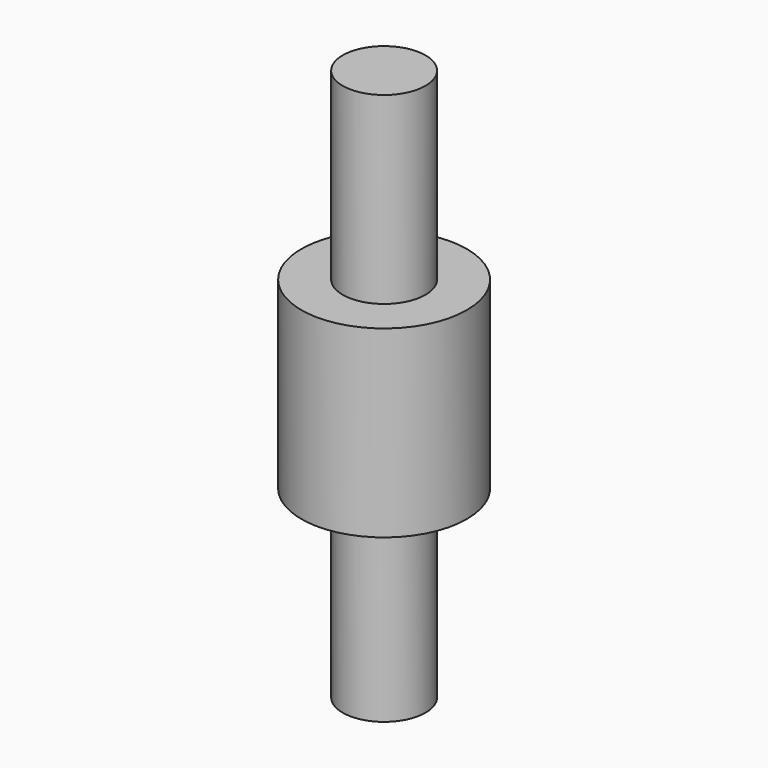
from build123d import *

# Parameters (mm, degrees)
CYLINDER002_R     = 4.5
CYLINDER002_DEPTH = 10
CYLINDER003_R     = 2.25
CYLINDER003_DEPTH = 30


with BuildPart() as cylinder002:
    # Cylinder002 → Cylinder002 (new body)
    with BuildSketch(Plane(origin=(0, 10, 5), x_dir=(1, 0, 0), z_dir=(0, 0, 1))):
        Circle(CYLINDER002_R)
    extrude(amount=CYLINDER002_DEPTH)


with BuildPart() as fusion002:
    # Cylinder003 → Cylinder003 (new body)
    with BuildSketch(Plane(origin=(0, 10, -5), x_dir=(1, 0, 0), z_dir=(0, 0, 1))):
        Circle(CYLINDER003_R)
    extrude(amount=CYLINDER003_DEPTH)

    # Fusion002: union Cylinder002
    add(cylinder002.part)


solid = fusion002.part
